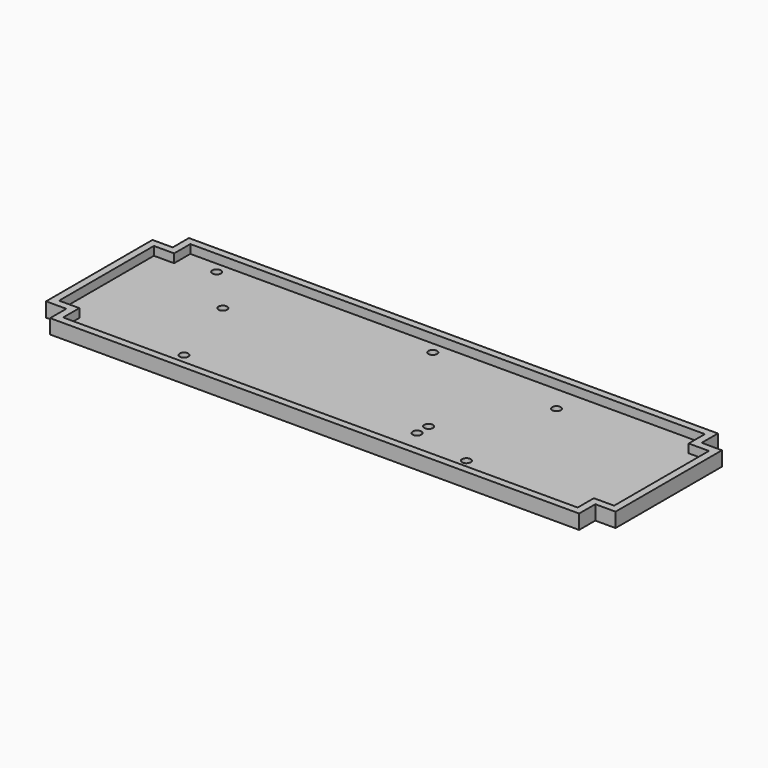
from build123d import *

# Parameters (mm, degrees)
PAD_DEPTH       = 5
POCKET003_DEPTH = 3
SKETCH011_R     = 1.5
POCKET004_DEPTH = 10


with BuildPart() as part:
    # Sketch009 (on Face5 of Pad002) → Pad (new body)
    with BuildSketch(Plane(origin=(0, 0, 0), x_dir=(1, 0, 0), z_dir=(0, 0, -1))):
        Polygon((-63.30204, 23.538714), (-70.30204, 23.538714), (-70.30204, -22.461286), (-63.30204, -22.461286), (-63.30204, -29.461286), (119.69796, -29.461286), (119.69796, -22.461286), (126.69796, -22.461286), (126.69796, 23.538714), (119.69796, 23.538714), (119.69796, 30.538714), (-63.30204, 30.538714), align=None)
    extrude(amount=PAD_DEPTH)

    # Sketch010 (on Face13 of Pad) → Pocket003 (cut)
    with BuildSketch(Plane.XY):
        Polygon((-60.80204, -28.038714), (-60.80204, -21.038714), (-67.80204, -21.038714), (-67.80204, 19.961286), (-60.80204, 19.961286), (-60.80204, 26.961286), (117.19796, 26.961286), (117.19796, 19.961286), (124.19796, 19.961286), (124.19796, -21.038714), (117.19796, -21.038714), (117.19796, -28.038714), align=None)
    extrude(amount=-POCKET003_DEPTH, mode=Mode.SUBTRACT)

    # Sketch011 (on Face27 of Pocket003) → Pocket004 (cut)
    with BuildSketch(Plane.XY.offset(-3)):
        with Locations((-48.657681, 23.169219)):
            Circle(SKETCH011_R)
        with Locations((-34.114651, 7.669219)):
            Circle(SKETCH011_R)
        with Locations((26.342319, 22.86806)):
            Circle(SKETCH011_R)
        with Locations((-25.157681, -20.330781)):
            Circle(SKETCH011_R)
        with Locations((-56.157681, -25.330781)):
            Circle(SKETCH011_R)
        with Locations((26.342319, -25.63194)):
            Circle(SKETCH011_R)
        with Locations((52.5, -11.63194)):
            Circle(SKETCH011_R)
        with Locations((52.5, -16.63194)):
            Circle(SKETCH011_R)
        with Locations((73, 18.059744)):
            Circle(SKETCH011_R)
        with Locations((73, -20.940256)):
            Circle(SKETCH011_R)
    extrude(amount=-POCKET004_DEPTH, mode=Mode.SUBTRACT)


solid = part.part
